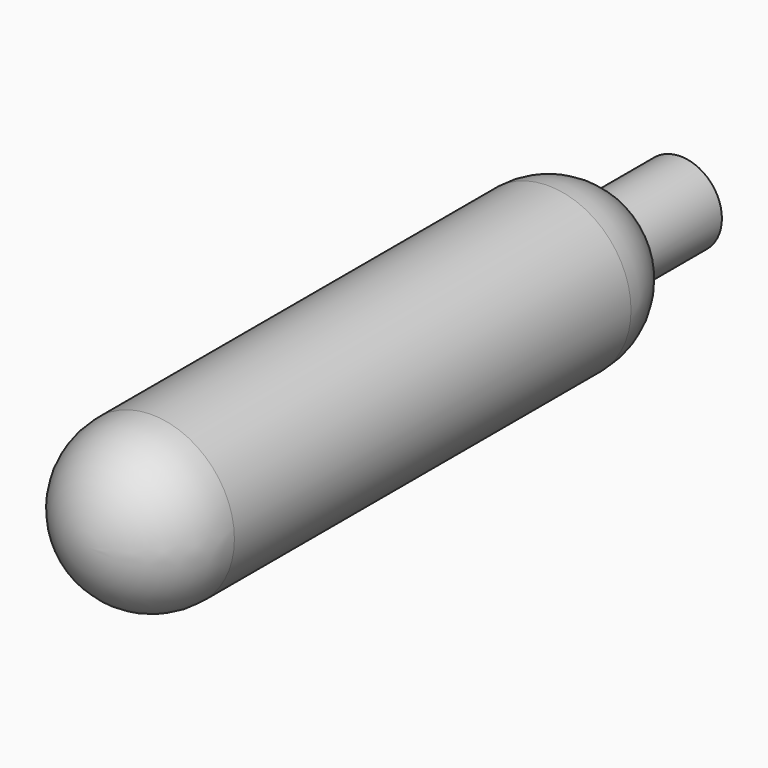
from build123d import *

# Parameters (mm, degrees)
F0_R     = 6.35
F1_DEPTH = 50.8
F2_R     = 6.35
F3_R     = 6.35
F4_R     = 3.175
F5_DEPTH = 6.35


with BuildPart() as f1:
    # F0 (on Front) → F1 (new body)
    with BuildSketch(Plane.XZ):
        Circle(F0_R)
    extrude(amount=F1_DEPTH)

    # F2
    f2_edges = [f1.edges().sort_by_distance(p)[0] for p in [
        (-6.35, -50.8, 0),
    ]]
    fillet(f2_edges, radius=F2_R)

    # F3
    f3_edges = [f1.edges().sort_by_distance(p)[0] for p in [
        (-6.35, 0, 0),
    ]]
    fillet(f3_edges, radius=F3_R)

    # F4 (on Front) → F5 (join, symmetric)
    with BuildSketch(Plane.XZ):
        Circle(F4_R)
    extrude(amount=F5_DEPTH, both=True)


solid = f1.part
